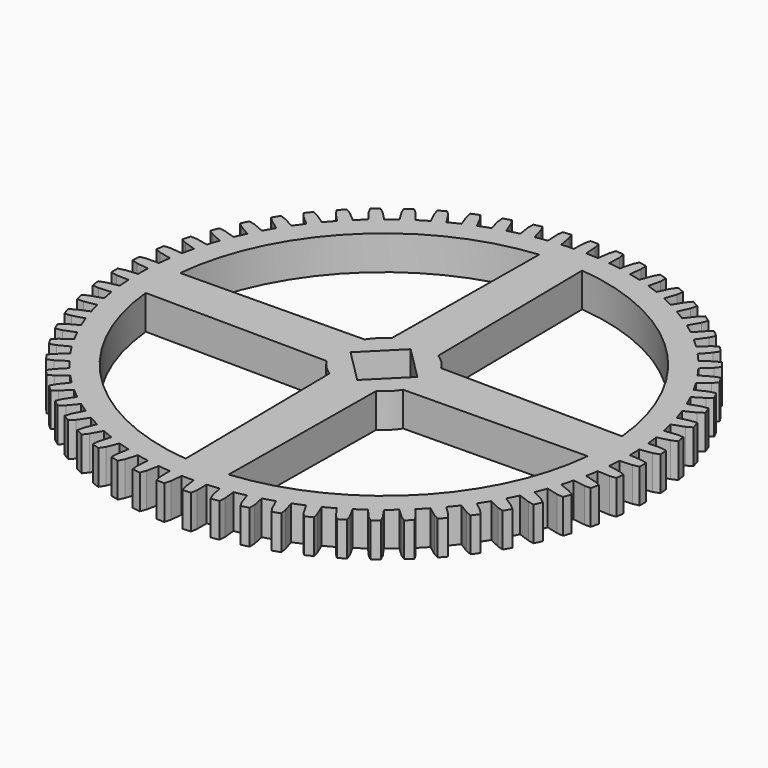
from build123d import *

# Parameters (mm, degrees)
F1_DEPTH = 13.97


with BuildPart() as f1:
    # F0 (on Top) → F1 (new body)
    with BuildSketch(Plane.XY):
        with BuildLine():
            ThreePointArc((2.420681, 100.338905), (1.150494, 100.361506), (-0.119877, 100.368028))
            ThreePointArc((-0.119877, 100.368028), (-1.389868, 100.358476), (-2.659636, 100.332855))
            ThreePointArc((-2.659636, 100.332855), (-5.122301, 100.237306), (-7.581877, 100.08132))
            ThreePointArc((-7.581877, 100.08132), (-10.11235, 99.857378), (-12.636346, 99.569465))
            ThreePointArc((-12.636346, 99.569465), (-15.077259, 99.229188), (-17.509082, 98.829082))
            ThreePointArc((-17.509082, 98.829082), (-20.004684, 98.354299), (-22.48747, 97.816508))
            ThreePointArc((-22.48747, 97.816508), (-24.882374, 97.234886), (-27.262275, 96.594637))
            ThreePointArc((-27.262275, 96.594637), (-29.698202, 95.873731), (-32.115104, 95.091407))
            ThreePointArc((-32.115104, 95.091407), (-34.440196, 94.274219), (-36.744522, 93.40019))
            ThreePointArc((-36.744522, 93.40019), (-39.096566, 92.440327), (-41.423563, 91.421244))
            ThreePointArc((-41.423563, 91.421244), (-43.655736, 90.376613), (-45.861586, 89.277491))
            ThreePointArc((-45.861586, 89.277491), (-48.10637, 88.088209), (-50.320337, 86.842497))
            ThreePointArc((-50.320337, 86.842497), (-52.437405, 85.580804), (-54.522857, 84.267512))
            ThreePointArc((-54.522857, 84.267512), (-56.638072, 82.860631), (-58.717004, 81.400669))
            ThreePointArc((-58.717004, 81.400669), (-60.697928, 79.934454), (-62.642256, 78.420044))
            ThreePointArc((-62.642256, 78.420044), (-64.60688, 76.809547), (-66.530115, 75.149845))
            ThreePointArc((-66.530115, 75.149845), (-68.355208, 73.49368), (-70.139087, 71.793203))
            ThreePointArc((-70.139087, 71.793203), (-71.933595, 69.995096), (-73.682021, 68.152148))
            ThreePointArc((-73.682021, 68.152148), (-75.333143, 66.322493), (-76.938845, 64.452848))
            ThreePointArc((-76.938845, 64.452848), (-78.545402, 62.485001), (-80.101641, 60.477125))
            ThreePointArc((-80.101641, 60.477125), (-81.562384, 58.492162), (-82.97395, 56.471933))
            ThreePointArc((-82.97395, 56.471933), (-84.376589, 54.353903), (-85.725175, 52.201053))
            ThreePointArc((-85.725175, 52.201053), (-86.981021, 50.080511), (-88.184422, 47.929773))
            ThreePointArc((-88.184422, 47.929773), (-89.369204, 45.682611), (-90.496734, 43.406183))
            ThreePointArc((-90.496734, 43.406183), (-91.535201, 41.171136), (-92.518478, 38.911266))
            ThreePointArc((-92.518478, 38.911266), (-93.473627, 36.557304), (-94.368895, 34.179923))
            ThreePointArc((-94.368895, 34.179923), (-95.179663, 31.852585), (-95.933044, 29.506042))
            ThreePointArc((-95.933044, 29.506042), (-96.649068, 27.068675), (-97.303176, 24.613968))
            ThreePointArc((-97.303176, 24.613968), (-97.878188, 22.217468), (-98.394184, 19.807573))
            ThreePointArc((-98.394184, 19.807573), (-98.863967, 17.311025), (-99.270415, 14.803387))
            ThreePointArc((-99.270415, 14.803387), (-99.603954, 12.361544), (-99.877439, 9.912248))
            ThreePointArc((-99.877439, 9.912248), (-100.096311, 7.381331), (-100.251059, 4.845685))
            ThreePointArc((-100.251059, 4.845685), (-100.339812, 2.382766), (-100.368067, -0.08159))
            ThreePointArc((-100.368067, -0.08159), (-100.333853, -2.621723), (-100.235363, -5.160177))
            ThreePointArc((-100.235363, -5.160177), (-100.078448, -7.619694), (-99.861192, -10.074617))
            ThreePointArc((-99.861192, -10.074617), (-99.574232, -12.598721), (-99.223484, -15.114754))
            ThreePointArc((-99.223484, -15.114754), (-98.822459, -17.546425), (-98.361851, -19.967518))
            ThreePointArc((-98.361851, -19.967518), (-97.824998, -22.450507), (-97.225476, -24.919114))
            ThreePointArc((-97.225476, -24.919114), (-96.584328, -27.298773), (-95.884946, -29.661972))
            ThreePointArc((-95.884946, -29.661972), (-95.103535, -32.07917), (-94.261199, -34.475817))
            ThreePointArc((-94.261199, -34.475817), (-93.386299, -36.779813), (-92.455094, -39.061633))
            ThreePointArc((-92.455094, -39.061633), (-91.43689, -41.389015), (-90.360111, -43.689883))
            ThreePointArc((-90.360111, -43.689883), (-89.260155, -45.895318), (-88.106381, -48.073081))
            Line((-88.106381, -48.073081), (-92.237725, -50.881745))
            Line((-92.237725, -50.881745), (-94.1213, -52.680146))
            ThreePointArc((-94.1213, -52.680146), (-93.303868, -54.11474), (-92.464571, -55.536654))
            Line((-92.464571, -55.536654), (-90.002439, -54.753374))
            Line((-90.002439, -54.753374), (-85.560984, -52.46974))
            ThreePointArc((-85.560984, -52.46974), (-84.246903, -54.554695), (-82.882027, -56.606758))
            Line((-82.882027, -56.606758), (-86.713189, -59.812814))
            Line((-86.713189, -59.812814), (-88.408342, -61.789821))
            ThreePointArc((-88.408342, -61.789821), (-87.452132, -63.135897), (-86.475429, -64.467178))
            Line((-86.475429, -64.467178), (-84.103521, -63.442642))
            Line((-84.103521, -63.442642), (-79.911513, -60.728129))
            ThreePointArc((-79.911513, -60.728129), (-78.396368, -62.671884), (-76.833955, -64.577851))
            ThreePointArc((-76.833955, -64.577851), (-75.174979, -66.501714), (-73.467846, -68.382974))
            ThreePointArc((-73.467846, -68.382974), (-71.766694, -70.16621), (-70.022272, -71.907141))
            ThreePointArc((-70.022272, -71.907141), (-68.179986, -73.656263), (-66.294022, -75.358199))
            ThreePointArc((-66.294022, -75.358199), (-64.423771, -76.963194), (-62.514677, -78.521785))
            ThreePointArc((-62.514677, -78.521785), (-60.507389, -80.078783), (-58.461338, -81.58448))
            ThreePointArc((-58.461338, -81.58448), (-56.440575, -82.995283), (-54.385782, -84.356044))
            ThreePointArc((-54.385782, -84.356044), (-52.233442, -85.705444), (-50.04764, -86.999938))
            ThreePointArc((-50.04764, -86.999938), (-47.896448, -88.202527), (-45.716377, -89.351935))
            ThreePointArc((-45.716377, -89.351935), (-43.440376, -90.480325), (-41.136545, -91.550752))
            ThreePointArc((-41.136545, -91.550752), (-38.876304, -92.533175), (-36.592622, -93.459807))
            ThreePointArc((-36.592622, -93.459807), (-34.215579, -94.355973), (-31.816617, -95.191693))
            ThreePointArc((-31.816617, -95.191693), (-29.46979, -95.944187), (-27.105194, -96.638833))
            ThreePointArc((-27.105194, -96.638833), (-24.650734, -97.293868), (-22.180482, -97.886576))
            ThreePointArc((-22.180482, -97.886576), (-19.770392, -98.401662), (-17.348382, -98.857418))
            ThreePointArc((-17.348382, -98.857418), (-14.840898, -99.264814), (-12.323906, -99.608618))
            ThreePointArc((-12.323906, -99.608618), (-9.874507, -99.881177), (-7.419153, -100.093515))
            ThreePointArc((-7.419153, -100.093515), (-4.883566, -100.249221), (-2.34485, -100.340705))
            ThreePointArc((-2.34485, -100.340705), (0.119516, -100.368029), (2.58381, -100.334837))
            ThreePointArc((2.58381, -100.334837), (5.122301, -100.237306), (7.65751, -100.075562))
            ThreePointArc((7.65751, -100.075562), (10.11235, -99.857378), (12.561094, -99.578986))
            ThreePointArc((12.561094, -99.578986), (15.077259, -99.229188), (17.583766, -98.815822))
            ThreePointArc((17.583766, -98.815822), (20.004684, -98.354299), (22.41354, -97.833474))
            ThreePointArc((22.41354, -97.833474), (24.882374, -97.234886), (27.335267, -96.574006))
            ThreePointArc((27.335267, -96.574006), (29.698202, -95.873731), (32.043231, -95.11565))
            ThreePointArc((32.043231, -95.11565), (34.440196, -94.274219), (36.815098, -93.372395))
            ThreePointArc((36.815098, -93.372395), (39.096566, -92.440327), (41.354461, -91.452523))
            ThreePointArc((41.354461, -91.452523), (43.655736, -90.376613), (45.929043, -89.242806))
            ThreePointArc((45.929043, -89.242806), (48.10637, -88.088209), (50.254692, -86.880501))
            ThreePointArc((50.254692, -86.880501), (52.437405, -85.580804), (54.586526, -84.226283))
            ThreePointArc((54.586526, -84.226283), (56.638072, -82.860631), (58.65547, -81.44502))
            ThreePointArc((58.65547, -81.44502), (60.697928, -79.934454), (62.701503, -78.372681))
            ThreePointArc((62.701503, -78.372681), (64.60688, -76.809547), (66.473303, -75.200103))
            ThreePointArc((66.473303, -75.200103), (68.355208, -73.49368), (70.193324, -71.740176))
            ThreePointArc((70.193324, -71.740176), (71.933595, -69.995096), (73.630494, -68.207813))
            ThreePointArc((73.630494, -68.207813), (75.333143, -66.322493), (76.987532, -64.394684))
            ThreePointArc((76.987532, -64.394684), (78.545402, -62.485001), (80.055913, -60.537643))
            ThreePointArc((80.055913, -60.537643), (81.562384, -58.492162), (83.016604, -56.40921))
            ThreePointArc((83.016604, -56.40921), (84.376589, -54.353903), (85.6857, -52.265823))
            ThreePointArc((85.6857, -52.265823), (86.981021, -50.080511), (88.220619, -47.863115))
            ThreePointArc((88.220619, -47.863115), (89.369204, -45.682611), (90.463904, -43.474562))
            ThreePointArc((90.463904, -43.474562), (91.535201, -41.171136), (92.547859, -38.841336))
            ThreePointArc((92.547859, -38.841336), (93.473627, -36.557304), (94.343037, -34.251231))
            ThreePointArc((94.343037, -34.251231), (95.179663, -31.852585), (95.955316, -29.433533))
            ThreePointArc((95.955316, -29.433533), (96.649068, -27.068675), (97.284547, -24.687496))
            ThreePointArc((97.284547, -24.687496), (97.878188, -22.217468), (98.409126, -19.733207))
            ThreePointArc((98.409126, -19.733207), (98.863967, -17.311025), (99.259199, -14.878406))
            ThreePointArc((99.259199, -14.878406), (99.603954, -12.361544), (99.884902, -9.836764))
            ThreePointArc((99.884902, -9.836764), (100.096311, -7.381331), (100.247368, -4.921447))
            ThreePointArc((100.247368, -4.921447), (100.339812, -2.382766), (100.367977, 0.157442))
            ThreePointArc((100.367977, 0.157442), (100.333853, 2.621723), (100.239235, 5.084424))
            ThreePointArc((100.239235, 5.084424), (100.078448, 7.619694), (99.853549, 10.150083))
            ThreePointArc((99.853549, 10.150083), (99.574232, 12.598721), (99.234878, 15.039763))
            ThreePointArc((99.234878, 15.039763), (98.822459, 17.546425), (98.346733, 20.041847))
            ThreePointArc((98.346733, 20.041847), (97.824998, 22.450507), (97.244281, 24.84563))
            ThreePointArc((97.244281, 24.84563), (96.584328, 27.298773), (95.862502, 29.734427))
            ThreePointArc((95.862502, 29.734427), (95.103535, 32.07917), (94.287226, 34.40457))
            ThreePointArc((94.287226, 34.40457), (93.386299, 36.779813), (92.425547, 39.131493))
            ThreePointArc((92.425547, 39.131493), (91.43689, 41.389015), (90.393103, 43.621582))
            ThreePointArc((90.393103, 43.621582), (89.260155, 45.895318), (88.070025, 48.139653))
            ThreePointArc((88.070025, 48.139653), (86.861505, 50.287518), (85.600612, 52.405063))
            ThreePointArc((85.600612, 52.405063), (84.246903, 54.554695), (82.839224, 56.669379))
            ThreePointArc((82.839224, 56.669379), (81.422851, 58.686241), (79.957384, 60.667719))
            ThreePointArc((79.957384, 60.667719), (78.396368, 62.671884), (76.785129, 64.635899))
            ThreePointArc((76.785129, 64.635899), (75.174979, 66.501714), (73.519504, 68.327432))
            ThreePointArc((73.519504, 68.327432), (71.766694, 70.16621), (69.967909, 71.960039))
            ThreePointArc((69.967909, 71.960039), (68.179986, 73.656263), (66.350954, 75.308077))
            ThreePointArc((66.350954, 75.308077), (64.423771, 76.963194), (62.455317, 78.569007))
            ThreePointArc((62.455317, 78.569007), (60.507389, 80.078783), (58.522978, 81.540276))
            ThreePointArc((58.522978, 81.540276), (56.440575, 82.995283), (54.322016, 84.397122))
            ThreePointArc((54.322016, 84.397122), (52.233442, 85.705444), (50.113375, 86.962091))
            ThreePointArc((50.113375, 86.962091), (47.896448, 88.202527), (45.648838, 89.386459))
            ThreePointArc((45.648838, 89.386459), (43.440376, 90.480325), (41.205722, 91.519637))
            ThreePointArc((41.205722, 91.519637), (38.876304, 92.533175), (36.521981, 93.487434))
            ThreePointArc((36.521981, 93.487434), (34.215579, 94.355973), (31.888548, 95.167621))
            ThreePointArc((31.888548, 95.167621), (29.46979, 95.944187), (27.032153, 96.659289))
            ThreePointArc((27.032153, 96.659289), (24.650734, 97.293868), (22.254452, 97.869785))
            ThreePointArc((22.254452, 97.869785), (19.770392, 98.401662), (17.273666, 98.870501))
            ThreePointArc((17.273666, 98.870501), (14.840898, 99.264814), (12.399181, 99.599276))
            ThreePointArc((12.399181, 99.599276), (9.874507, 99.881177), (7.343507, 100.099093))
            ThreePointArc((7.343507, 100.099093), (4.883566, 100.249221), (2.420681, 100.338905))
        make_face()
        with BuildLine():
            ThreePointArc((90.289395, 8.7884), (90.609361, 4.399376), (90.7161, 0))
            ThreePointArc((90.7161, 0), (90.609361, -4.399376), (90.289395, -8.7884))
            ThreePointArc((90.289395, -8.7884), (64.145969, -64.145969), (8.7884, -90.289395))
            ThreePointArc((8.7884, -90.289395), (4.399376, -90.609361), (0, -90.7161))
            ThreePointArc((0, -90.7161), (-4.399376, -90.609361), (-8.7884, -90.289395))
            ThreePointArc((-8.7884, -90.289395), (-64.145969, -64.145969), (-90.289395, -8.7884))
            ThreePointArc((-90.289395, -8.7884), (-90.609361, -4.399376), (-90.7161, 0))
            ThreePointArc((-90.7161, 0), (-90.609361, 4.399376), (-90.289395, 8.7884))
            ThreePointArc((-90.289395, 8.7884), (-64.145969, 64.145969), (-8.7884, 90.289395))
            ThreePointArc((-8.7884, 90.289395), (-4.399376, 90.609361), (0, 90.7161))
            ThreePointArc((0, 90.7161), (4.399376, 90.609361), (8.7884, 90.289395))
            ThreePointArc((8.7884, 90.289395), (64.145969, 64.145969), (90.289395, 8.7884))
        make_face(mode=Mode.SUBTRACT)
        with BuildLine():
            Line((0, 18.415), (0, 90.7161))
            ThreePointArc((0, 90.7161), (-4.399376, 90.609361), (-8.7884, 90.289395))
            Line((-8.7884, 90.289395), (-9.4869, 15.783249))
            ThreePointArc((-9.4869, 15.783249), (-4.922585, 17.744869), (0, 18.415))
        make_face()
        with BuildLine():
            Line((-15.64357, 9.7155), (-90.289395, 8.7884))
            ThreePointArc((-90.289395, 8.7884), (-90.609361, 4.399376), (-90.7161, 0))
            Line((-90.7161, 0), (-18.415, 0))
            ThreePointArc((-18.415, 0), (-17.708594, 5.051529), (-15.64357, 9.7155))
        make_face()
        with BuildLine():
            ThreePointArc((-90.7161, 0), (-90.609361, -4.399376), (-90.289395, -8.7884))
            Line((-90.289395, -8.7884), (-15.783249, -9.4869))
            ThreePointArc((-15.783249, -9.4869), (-17.744869, -4.922585), (-18.415, 0))
            Line((-18.415, 0), (-90.7161, 0))
        make_face()
        with BuildLine():
            ThreePointArc((-8.7884, -90.289395), (-4.399376, -90.609361), (0, -90.7161))
            Line((0, -90.7161), (0, -18.415))
            ThreePointArc((0, -18.415), (-5.051529, -17.708594), (-9.7155, -15.64357))
            Line((-9.7155, -15.64357), (-8.7884, -90.289395))
        make_face()
        with BuildLine():
            ThreePointArc((0, -90.7161), (4.399376, -90.609361), (8.7884, -90.289395))
            Line((8.7884, -90.289395), (9.4869, -15.783249))
            ThreePointArc((9.4869, -15.783249), (4.922585, -17.744869), (0, -18.415))
            Line((0, -18.415), (0, -90.7161))
        make_face()
        with BuildLine():
            ThreePointArc((90.289395, -8.7884), (90.609361, -4.399376), (90.7161, 0))
            Line((90.7161, 0), (18.415, 0))
            ThreePointArc((18.415, 0), (17.708594, -5.051529), (15.64357, -9.7155))
            Line((15.64357, -9.7155), (90.289395, -8.7884))
        make_face()
        with BuildLine():
            Line((18.415, 0), (90.7161, 0))
            ThreePointArc((90.7161, 0), (90.609361, 4.399376), (90.289395, 8.7884))
            Line((90.289395, 8.7884), (15.783249, 9.4869))
            ThreePointArc((15.783249, 9.4869), (17.744869, 4.922585), (18.415, 0))
        make_face()
        with BuildLine():
            ThreePointArc((15.64357, -9.7155), (17.708594, -5.051529), (18.415, 0))
            ThreePointArc((18.415, 0), (17.744869, 4.922585), (15.783249, 9.4869))
            ThreePointArc((15.783249, 9.4869), (13.115742, 12.926311), (9.7155, 15.64357))
            ThreePointArc((9.7155, 15.64357), (5.051529, 17.708594), (0, 18.415))
            ThreePointArc((0, 18.415), (-4.922585, 17.744869), (-9.4869, 15.783249))
            ThreePointArc((-9.4869, 15.783249), (-12.926311, 13.115742), (-15.64357, 9.7155))
            ThreePointArc((-15.64357, 9.7155), (-17.708594, 5.051529), (-18.415, 0))
            ThreePointArc((-18.415, 0), (-17.744869, -4.922585), (-15.783249, -9.4869))
            ThreePointArc((-15.783249, -9.4869), (-13.115742, -12.926311), (-9.7155, -15.64357))
            ThreePointArc((-9.7155, -15.64357), (-5.051529, -17.708594), (0, -18.415))
            ThreePointArc((0, -18.415), (4.922585, -17.744869), (9.4869, -15.783249))
            ThreePointArc((9.4869, -15.783249), (12.926311, -13.115742), (15.64357, -9.7155))
        make_face()
        Polygon((13.656689, 0), (0, -13.6271), (-13.636956, 0), (0, 13.646819), align=None, mode=Mode.SUBTRACT)
        with BuildLine():
            Line((8.082009, 105.038337), (7.343507, 100.099093))
            ThreePointArc((7.343507, 100.099093), (9.874507, 99.881177), (12.399181, 99.599276))
            Line((12.399181, 99.599276), (12.530366, 104.593211))
            Line((12.530366, 104.593211), (12.169701, 107.172362))
            ThreePointArc((12.169701, 107.172362), (10.527728, 107.346094), (8.883288, 107.49467))
            Line((8.883288, 107.49467), (8.082009, 105.038337))
        make_face()
        with BuildLine():
            Line((18.500288, 103.711669), (17.273666, 98.870501))
            ThreePointArc((17.273666, 98.870501), (19.770392, 98.401662), (22.254452, 97.869785))
            Line((22.254452, 97.869785), (22.88222, 102.825843))
            Line((22.88222, 102.825843), (22.780148, 105.428088))
            ThreePointArc((22.780148, 105.428088), (21.163633, 105.764444), (19.542158, 106.076015))
            Line((19.542158, 106.076015), (18.500288, 103.711669))
        make_face()
        with BuildLine():
            Line((28.734704, 101.354269), (27.032153, 96.659289))
            ThreePointArc((27.032153, 96.659289), (29.46979, 95.944187), (31.888548, 95.167621))
            Line((31.888548, 95.167621), (33.006661, 100.036545))
            Line((33.006661, 100.036545), (33.164197, 102.636022))
            ThreePointArc((33.164197, 102.636022), (31.589204, 103.131659), (30.006809, 103.603129))
            Line((30.006809, 103.603129), (28.734704, 101.354269))
        make_face()
        with BuildLine():
            Line((38.683541, 97.989564), (36.521981, 93.487434))
            ThreePointArc((36.521981, 93.487434), (38.876304, 92.533175), (41.205722, 91.519637))
            Line((41.205722, 91.519637), (42.803067, 96.253038))
            Line((42.803067, 96.253038), (43.218644, 98.823913))
            ThreePointArc((43.218644, 98.823913), (41.700827, 99.473906), (40.173239, 100.100588))
            Line((40.173239, 100.100588), (38.683541, 97.989564))
        make_face()
        with BuildLine():
            Line((48.247924, 93.650995), (45.648838, 89.386459))
            ThreePointArc((45.648838, 89.386459), (47.896448, 88.202527), (50.113375, 86.962091))
            Line((50.113375, 86.962091), (52.174077, 91.512926))
            Line((52.174077, 91.512926), (52.843565, 94.029647))
            ThreePointArc((52.843565, 94.029647), (51.398009, 94.827536), (49.940409, 95.603203))
            Line((49.940409, 95.603203), (48.247924, 93.650995))
        make_face()
        with BuildLine():
            Line((57.332797, 88.38168), (54.322016, 84.397122))
            ThreePointArc((54.322016, 84.397122), (56.440575, 82.995283), (58.522978, 81.540276))
            Line((58.522978, 81.540276), (61.026557, 85.863317))
            Line((61.026557, 85.863317), (61.943303, 88.300873))
            ThreePointArc((61.943303, 88.300873), (60.584374, 89.238727), (59.211249, 90.15567))
            Line((59.211249, 90.15567), (57.332797, 88.38168))
        make_face()
        with BuildLine():
            Line((65.847871, 82.233989), (62.455317, 78.569007))
            ThreePointArc((62.455317, 78.569007), (64.423771, 76.963194), (66.350954, 75.308077))
            Line((66.350954, 75.308077), (69.272528, 79.36036))
            Line((69.272528, 79.36036), (70.42742, 81.694525))
            ThreePointArc((70.42742, 81.694525), (69.168625, 82.763025), (67.893621, 83.81213))
            Line((67.893621, 83.81213), (65.847871, 82.233989))
        make_face()
        with BuildLine():
            Line((73.708519, 75.269019), (69.967909, 71.960039))
            ThreePointArc((69.967909, 71.960039), (71.766694, 70.16621), (73.519504, 68.327432))
            Line((73.519504, 68.327432), (76.830037, 72.068684))
            Line((76.830037, 72.068684), (78.211599, 74.27626))
            ThreePointArc((78.211599, 74.27626), (77.065447, 75.464785), (75.901235, 76.635627))
            Line((75.901235, 76.635627), (73.708519, 75.269019))
        make_face()
        with BuildLine():
            Line((80.836619, 67.555992), (76.785129, 64.635899))
            ThreePointArc((76.785129, 64.635899), (78.396368, 62.671884), (79.957384, 60.667719))
            Line((79.957384, 60.667719), (83.623975, 64.060758))
            Line((83.623975, 64.060758), (85.218475, 66.119804))
            ThreePointArc((85.218475, 66.119804), (84.196357, 67.416543), (83.154509, 68.697485))
            Line((83.154509, 68.697485), (80.836619, 67.555992))
        make_face()
        with BuildLine():
            Line((87.161328, 59.171563), (82.839224, 56.669379))
            ThreePointArc((82.839224, 56.669379), (84.246903, 54.554695), (85.600612, 52.405063))
            Line((85.600612, 52.405063), (89.586821, 55.416166))
            Line((89.586821, 55.416166), (91.378412, 57.30622))
            ThreePointArc((91.378412, 57.30622), (90.490487, 58.698285), (89.581357, 60.076596))
            Line((89.581357, 60.076596), (87.161328, 59.171563))
        make_face()
        with BuildLine():
            Line((92.619789, 50.19906), (88.070025, 48.139653))
            ThreePointArc((88.070025, 48.139653), (89.260155, 45.895318), (90.393103, 43.621582))
            Line((90.393103, 43.621582), (94.659312, 46.220824))
            Line((94.659312, 46.220824), (96.630189, 47.9231))
            ThreePointArc((96.630189, 47.9231), (95.885281, 49.396658), (95.117904, 50.858639))
            Line((95.117904, 50.858639), (92.619789, 50.19906))
        make_face()
        with BuildLine():
            Line((97.157753, 40.727657), (92.425547, 39.131493))
            ThreePointArc((92.425547, 39.131493), (93.386299, 36.779813), (94.287226, 34.40457))
            Line((94.287226, 34.40457), (98.791037, 36.566118))
            Line((98.791037, 36.566118), (100.921611, 38.0637))
            ThreePointArc((100.921611, 38.0637), (100.327124, 39.604104), (99.709127, 41.135227))
            Line((99.709127, 41.135227), (97.157753, 40.727657))
        make_face()
        with BuildLine():
            Line((100.730119, 30.851484), (95.862502, 29.734427))
            ThreePointArc((95.862502, 29.734427), (96.584328, 27.298773), (97.244281, 24.84563))
            Line((97.244281, 24.84563), (101.940931, 26.548002))
            Line((101.940931, 26.548002), (104.21003, 27.826005))
            ThreePointArc((104.21003, 27.826005), (103.771872, 29.417946), (103.309396, 31.002993))
            Line((103.309396, 31.002993), (100.730119, 30.851484))
        make_face()
        with BuildLine():
            Line((103.301385, 20.668695), (98.346733, 20.041847))
            ThreePointArc((98.346733, 20.041847), (98.822459, 17.546425), (99.234878, 15.039763))
            Line((99.234878, 15.039763), (104.077691, 16.26604))
            Line((104.077691, 16.26604), (106.462762, 17.311763))
            ThreePointArc((106.462762, 17.311763), (106.185287, 18.93942), (105.88293, 20.562638))
            Line((105.88293, 20.562638), (103.301385, 20.668695))
        make_face()
        with BuildLine():
            Line((104.845994, 10.280491), (99.853549, 10.150083))
            ThreePointArc((99.853549, 10.150083), (100.078448, 7.619694), (100.239235, 5.084424))
            Line((100.239235, 5.084424), (105.180081, 5.822419))
            Line((105.180081, 5.822419), (107.65742, 6.625469))
            ThreePointArc((107.65742, 6.625469), (107.543386, 8.272665), (107.404151, 9.917923))
            Line((107.404151, 9.917923), (104.845994, 10.280491))
        make_face()
        with BuildLine():
            Line((105.348597, -0.209885), (100.367977, 0.157442))
            ThreePointArc((100.367977, 0.157442), (100.339812, -2.382766), (100.247368, -4.921447))
            Line((100.247368, -4.921447), (105.237143, -4.679068))
            Line((105.237143, -4.679068), (107.78213, -4.126671))
            ThreePointArc((107.78213, -4.126671), (107.83267, -2.476307), (107.857942, -0.825362))
            Line((107.857942, -0.825362), (105.348597, -0.209885))
        make_face()
        with BuildLine():
            Line((104.804199, -10.698175), (99.884902, -9.836764))
            ThreePointArc((99.884902, -9.836764), (99.603954, -12.361544), (99.259199, -14.878406))
            Line((99.259199, -14.878406), (104.248311, -15.134052))
            Line((104.248311, -15.134052), (106.835652, -14.8378))
            ThreePointArc((106.835652, -14.8378), (107.050265, -13.200668), (107.239792, -11.560443))
            Line((107.239792, -11.560443), (104.804199, -10.698175))
        make_face()
        with BuildLine():
            Line((103.218209, -21.080142), (98.409126, -19.733207))
            ThreePointArc((98.409126, -19.733207), (97.878188, -22.217468), (97.284547, -24.687496))
            Line((97.284547, -24.687496), (102.223413, -25.438628))
            Line((102.223413, -25.438628), (104.827394, -25.401463))
            ThreePointArc((104.827394, -25.401463), (105.203946, -23.793835), (105.555845, -22.180632))
            Line((105.555845, -22.180632), (103.218209, -21.080142))
        make_face()
        with BuildLine():
            Line((100.60639, -31.252605), (95.955316, -29.433533))
            ThreePointArc((95.955316, -29.433533), (95.179663, -31.852585), (94.343037, -34.251231))
            Line((94.343037, -34.251231), (99.182572, -35.490382))
            Line((99.182572, -35.490382), (101.777314, -35.712675))
            ThreePointArc((101.777314, -35.712675), (102.312063, -34.150529), (102.822837, -32.58038))
            Line((102.822837, -32.58038), (100.60639, -31.252605))
        make_face()
        with BuildLine():
            Line((96.9947, -41.114465), (92.547859, -38.841336))
            ThreePointArc((92.547859, -38.841336), (91.535201, -41.171136), (90.463904, -43.474562))
            Line((90.463904, -43.474562), (95.156011, -45.189418))
            Line((95.156011, -45.189418), (97.715726, -45.668959))
            ThreePointArc((97.715726, -45.668959), (98.403357, -44.167819), (99.067929, -42.656329))
            Line((99.067929, -42.656329), (96.9947, -41.114465))
        make_face()
        with BuildLine():
            Line((92.419033, -50.567711), (88.220619, -47.863115))
            ThreePointArc((88.220619, -47.863115), (86.981021, -50.080511), (85.6857, -52.265823))
            Line((85.6857, -52.265823), (90.183746, -54.439341))
            Line((90.183746, -54.439341), (92.682994, -55.171364))
            ThreePointArc((92.682994, -55.171364), (93.516674, -53.74615), (94.328439, -52.30834))
            Line((94.328439, -52.30834), (92.419033, -50.567711))
        make_face()
        with BuildLine():
            Line((86.924864, -59.518393), (83.016604, -56.40921))
            ThreePointArc((83.016604, -56.40921), (81.562384, -58.492162), (80.055913, -60.537643))
            Line((80.055913, -60.537643), (84.315195, -63.148221))
            Line((84.315195, -63.148221), (86.729138, -64.125452))
            ThreePointArc((86.729138, -64.125452), (87.70058, -62.790327), (88.651471, -61.440488))
            Line((88.651471, -61.440488), (86.924864, -59.518393))
        make_face()
        with BuildLine():
            Line((80.566796, -67.877554), (76.987532, -64.394684))
            ThreePointArc((76.987532, -64.394684), (75.333143, -66.322493), (73.630494, -68.207813))
            Line((73.630494, -68.207813), (77.608682, -71.229505))
            Line((77.608682, -71.229505), (79.913328, -72.442231))
            ThreePointArc((79.913328, -72.442231), (81.012879, -71.210465), (82.093445, -69.962013))
            Line((82.093445, -69.962013), (80.566796, -67.877554))
        make_face()
        with BuildLine():
            Line((73.40802, -75.562118), (70.193324, -71.740176))
            ThreePointArc((70.193324, -71.740176), (68.355208, -73.49368), (66.473303, -75.200103))
            Line((66.473303, -75.200103), (70.130858, -78.602879))
            Line((70.130858, -78.602879), (72.303304, -80.039048))
            ThreePointArc((72.303304, -80.039048), (73.520035, -78.922883), (74.719537, -77.788223))
            Line((74.719537, -77.788223), (73.40802, -75.562118))
        make_face()
        with BuildLine():
            Line((65.519681, -82.495711), (62.701503, -78.372681))
            ThreePointArc((62.701503, -78.372681), (60.697928, -79.934454), (58.65547, -81.44502))
            Line((58.65547, -81.44502), (61.956043, -85.195062))
            Line((61.956043, -85.195062), (63.974697, -86.8404))
            ThreePointArc((63.974697, -86.8404), (65.296516, -85.850929), (66.603033, -84.841339))
            Line((66.603033, -84.841339), (65.519681, -82.495711))
        make_face()
        with BuildLine():
            Line((56.980179, -88.609425), (54.586526, -84.226283))
            ThreePointArc((54.586526, -84.226283), (52.437405, -85.580804), (50.254692, -86.880501))
            Line((50.254692, -86.880501), (53.16548, -90.940539))
            Line((53.16548, -90.940539), (55.010281, -92.778693))
            ThreePointArc((55.010281, -92.778693), (56.424051, -91.925749), (57.824598, -91.051264))
            Line((57.824598, -91.051264), (56.980179, -88.609425))
        make_face()
        with BuildLine():
            Line((47.874382, -93.842499), (45.929043, -89.242806))
            ThreePointArc((45.929043, -89.242806), (43.655736, -90.376613), (41.354461, -91.452523))
            Line((41.354461, -91.452523), (43.846536, -95.782207))
            Line((43.846536, -95.782207), (45.499148, -97.79491))
            ThreePointArc((45.499148, -97.79491), (46.990818, -97.086971), (48.471477, -96.356281))
            Line((48.471477, -96.356281), (47.874382, -93.842499))
        make_face()
        with BuildLine():
            Line((38.292788, -98.142923), (36.815098, -93.372395))
            ThreePointArc((36.815098, -93.372395), (34.440196, -94.274219), (32.043231, -95.11565))
            Line((32.043231, -95.11565), (34.091824, -99.671949))
            Line((34.091824, -99.671949), (35.535823, -101.839197))
            ThreePointArc((35.535823, -101.839197), (37.090569, -101.283299), (38.636624, -100.703665))
            Line((38.636624, -100.703665), (38.292788, -98.142923))
        make_face()
        with BuildLine():
            Line((28.330623, -101.46796), (27.335267, -96.574006))
            ThreePointArc((27.335267, -96.574006), (24.882374, -97.234886), (22.41354, -97.833474))
            Line((22.41354, -97.833474), (23.998293, -102.571106))
            Line((23.998293, -102.571106), (25.219328, -104.871361))
            ThreePointArc((25.219328, -104.871361), (26.821698, -104.473027), (28.417782, -104.050212))
            Line((28.417782, -104.050212), (28.330623, -101.46796))
        make_face()
        with BuildLine():
            Line((18.086896, -103.784562), (17.583766, -98.815822))
            ThreePointArc((17.583766, -98.815822), (15.077259, -99.229188), (12.561094, -99.578986))
            Line((12.561094, -99.578986), (13.666256, -104.450866))
            Line((13.666256, -104.450866), (14.652192, -106.861266))
            ThreePointArc((14.652192, -106.861266), (16.286261, -106.624456), (17.916512, -106.36266))
            Line((17.916512, -106.36266), (18.086896, -103.784562))
        make_face()
        with BuildLine():
            Line((7.663412, -105.069706), (7.65751, -100.075562))
            ThreePointArc((7.65751, -100.075562), (5.122301, -100.237306), (2.58381, -100.334837))
            Line((2.58381, -100.334837), (3.198397, -105.292546))
            Line((3.198397, -105.292546), (3.939436, -107.789136))
            ThreePointArc((3.939436, -107.789136), (5.588963, -107.716203), (7.23718, -107.618029))
            Line((7.23718, -107.618029), (7.663412, -105.069706))
        make_face()
        with BuildLine():
            Line((-7.301248, -105.087781), (-6.812472, -107.645748))
            ThreePointArc((-6.812472, -107.645748), (-5.16388, -107.737418), (-3.514078, -107.803841))
            Line((-3.514078, -107.803841), (-2.836233, -105.310621))
            Line((-2.836233, -105.310621), (-2.34485, -100.340705))
            ThreePointArc((-2.34485, -100.340705), (-4.883566, -100.249221), (-7.419153, -100.093515))
            Line((-7.419153, -100.093515), (-7.301248, -105.087781))
        make_face()
        with BuildLine():
            Line((-17.728331, -103.838607), (-17.496675, -106.432529))
            ThreePointArc((-17.496675, -106.432529), (-15.865402, -106.68789), (-14.230412, -106.91825))
            Line((-14.230412, -106.91825), (-13.307691, -104.504911))
            Line((-13.307691, -104.504911), (-12.323906, -99.608618))
            ThreePointArc((-12.323906, -99.608618), (-14.840898, -99.264814), (-17.348382, -98.857418))
            Line((-17.348382, -98.857418), (-17.728331, -103.838607))
        make_face()
        with BuildLine():
            Line((-27.979221, -101.557437), (-28.006987, -104.161536))
            ThreePointArc((-28.006987, -104.161536), (-26.409247, -104.57805), (-24.805318, -104.970058))
            Line((-24.805318, -104.970058), (-23.646891, -102.660584))
            Line((-23.646891, -102.660584), (-22.180482, -97.886576))
            ThreePointArc((-22.180482, -97.886576), (-24.650734, -97.293868), (-27.105194, -96.638833))
            Line((-27.105194, -96.638833), (-27.979221, -101.557437))
        make_face()
        with BuildLine():
            Line((-37.952041, -98.266945), (-38.238954, -100.855338))
            ThreePointArc((-38.238954, -100.855338), (-36.690625, -101.428866), (-35.133698, -101.978626))
            Line((-35.133698, -101.978626), (-33.751078, -99.795971))
            Line((-33.751078, -99.795971), (-31.816617, -95.191693))
            ThreePointArc((-31.816617, -95.191693), (-34.215579, -94.355973), (-36.592622, -93.459807))
            Line((-36.592622, -93.459807), (-37.952041, -98.266945))
        make_face()
        with BuildLine():
            Line((-47.547677, -93.999831), (-48.090885, -96.546795))
            ThreePointArc((-48.090885, -96.546795), (-46.607355, -97.271637), (-45.112903, -97.973685))
            Line((-45.112903, -97.973685), (-43.519831, -95.93954))
            Line((-43.519831, -95.93954), (-41.136545, -91.550752))
            ThreePointArc((-41.136545, -91.550752), (-43.440376, -90.480325), (-45.716377, -89.351935))
            Line((-45.716377, -89.351935), (-47.547677, -93.999831))
        make_face()
        with BuildLine():
            Line((-56.670763, -88.798505), (-57.464867, -91.278727))
            ThreePointArc((-57.464867, -91.278727), (-56.06088, -92.147679), (-54.643755, -92.995037))
            Line((-54.643755, -92.995037), (-52.856064, -91.129619))
            Line((-52.856064, -91.129619), (-50.04764, -86.999938))
            ThreePointArc((-50.04764, -86.999938), (-52.233442, -85.705444), (-54.385782, -84.356044))
            Line((-54.385782, -84.356044), (-56.670763, -88.798505))
        make_face()
        with BuildLine():
            Line((-65.230629, -82.71466), (-66.267738, -85.103489))
            ThreePointArc((-66.267738, -85.103489), (-64.957247, -86.107915), (-63.631534, -87.092163))
            Line((-63.631534, -87.092163), (-61.666991, -85.414011))
            Line((-61.666991, -85.414011), (-58.461338, -81.58448))
            ThreePointArc((-58.461338, -81.58448), (-60.507389, -80.078783), (-62.514677, -78.521785))
            Line((-62.514677, -78.521785), (-65.230629, -82.71466))
        make_face()
        with BuildLine():
            Line((-73.142204, -75.808759), (-74.412009, -78.082455))
            ThreePointArc((-74.412009, -78.082455), (-73.208039, -79.212372), (-71.986913, -80.323727))
            Line((-71.986913, -80.323727), (-69.865043, -78.84952))
            Line((-69.865043, -78.84952), (-66.294022, -75.358199))
            ThreePointArc((-66.294022, -75.358199), (-68.179986, -73.656263), (-70.022272, -71.907141))
            Line((-70.022272, -71.907141), (-73.142204, -75.808759))
        make_face()
        with BuildLine():
            Line((-80.326859, -68.149436), (-81.816741, -70.285402))
            ThreePointArc((-81.816741, -70.285402), (-80.731257, -71.529581), (-79.626855, -72.756999))
            Line((-79.626855, -72.756999), (-77.368745, -71.501387))
            Line((-77.368745, -71.501387), (-73.467846, -68.382974))
            ThreePointArc((-73.467846, -68.382974), (-75.174979, -66.501714), (-76.833955, -64.577851))
            Line((-76.833955, -64.577851), (-80.326859, -68.149436))
        make_face()
        with BuildLine():
            ThreePointArc((-90.360111, -43.689883), (-91.43689, -41.389015), (-92.455094, -39.061633))
            Line((-92.455094, -39.061633), (-96.845561, -41.444991))
            Line((-96.845561, -41.444991), (-98.898839, -43.046911))
            ThreePointArc((-98.898839, -43.046911), (-98.228308, -44.555767), (-97.534759, -46.054182))
            Line((-97.534759, -46.054182), (-95.006872, -45.519944))
            Line((-95.006872, -45.519944), (-90.360111, -43.689883))
        make_face()
        with BuildLine():
            ThreePointArc((-94.261199, -34.475817), (-95.103535, -32.07917), (-95.884946, -29.661972))
            Line((-95.884946, -29.661972), (-100.490902, -31.596337))
            Line((-100.490902, -31.596337), (-102.693477, -32.985857))
            ThreePointArc((-102.693477, -32.985857), (-102.176511, -34.553978), (-101.635603, -36.114003))
            Line((-101.635603, -36.114003), (-99.067084, -35.834115))
            Line((-99.067084, -35.834115), (-94.261199, -34.475817))
        make_face()
        with BuildLine():
            ThreePointArc((-97.225476, -24.919114), (-97.824998, -22.450507), (-98.361851, -19.967518))
            Line((-98.361851, -19.967518), (-103.137519, -21.433665))
            Line((-103.137519, -21.433665), (-105.4675, -22.596974))
            ThreePointArc((-105.4675, -22.596974), (-105.109239, -24.208777), (-104.726346, -25.814906))
            Line((-104.726346, -25.814906), (-102.142723, -25.792151))
            Line((-102.142723, -25.792151), (-97.225476, -24.919114))
        make_face()
        with BuildLine():
            ThreePointArc((-99.223484, -15.114754), (-99.574232, -12.598721), (-99.861192, -10.074617))
            Line((-99.861192, -10.074617), (-104.75911, -11.057976))
            Line((-104.75911, -11.057976), (-107.193341, -11.983513))
            ThreePointArc((-107.193341, -11.983513), (-106.997343, -13.622977), (-106.776272, -15.259249))
            Line((-106.776272, -15.259249), (-104.203222, -15.493853))
            Line((-104.203222, -15.493853), (-99.223484, -15.114754))
        make_face()
        with BuildLine():
            ThreePointArc((-100.235363, -5.160177), (-100.333853, -2.621723), (-100.368067, -0.08159))
            Line((-100.368067, -0.08159), (-105.339557, -0.572387))
            Line((-105.339557, -0.572387), (-107.853846, -1.250954))
            ThreePointArc((-107.853846, -1.250954), (-107.82206, -2.901786), (-107.765007, -4.551939))
            Line((-107.765007, -4.551939), (-105.228103, -5.04157))
            Line((-105.228103, -5.04157), (-100.235363, -5.160177))
        make_face()
        with BuildLine():
            ThreePointArc((-100.251059, 4.845685), (-100.096311, 7.381331), (-99.877439, 9.912248))
            Line((-99.877439, 9.912248), (-104.873093, 9.91889))
            Line((-104.873093, 9.91889), (-107.44245, 9.494037))
            ThreePointArc((-107.44245, 9.494037), (-107.575192, 7.848243), (-107.682725, 6.20061))
            Line((-107.682725, 6.20061), (-105.207179, 5.460818))
            Line((-105.207179, 5.460818), (-100.251059, 4.845685))
        make_face()
        with BuildLine():
            ThreePointArc((-99.270415, 14.803387), (-98.863967, 17.311025), (-98.394184, 19.807573))
            Line((-98.394184, 19.807573), (-103.364352, 20.311589))
            Line((-103.364352, 20.311589), (-105.963244, 20.144673))
            ThreePointArc((-105.963244, 20.144673), (-106.259194, 18.520274), (-106.530244, 16.891535))
            Line((-106.530244, 16.891535), (-104.140659, 15.908934))
            Line((-104.140659, 15.908934), (-99.270415, 14.803387))
        make_face()
        with BuildLine():
            ThreePointArc((-97.303176, 24.613968), (-96.649068, 27.068675), (-95.933044, 29.506042))
            Line((-95.933044, 29.506042), (-100.82833, 30.502422))
            Line((-100.82833, 30.502422), (-103.430927, 30.595101))
            ThreePointArc((-103.430927, 30.595101), (-103.887145, 29.008242), (-104.319018, 27.414584))
            Line((-104.319018, 27.414584), (-102.039142, 26.19894))
            Line((-102.039142, 26.19894), (-97.303176, 24.613968))
        make_face()
        with BuildLine():
            ThreePointArc((-94.368895, 34.179923), (-93.473627, 36.557304), (-92.518478, 38.911266))
            Line((-92.518478, 38.911266), (-97.290231, 40.390108))
            Line((-97.290231, 40.390108), (-99.870667, 40.741462))
            ThreePointArc((-99.870667, 40.741462), (-100.482618, 39.207913), (-101.071022, 37.665175))
            Line((-101.071022, 37.665175), (-98.923515, 36.22857))
            Line((-98.923515, 36.22857), (-94.368895, 34.179923))
        make_face()
        with BuildLine():
            ThreePointArc((-90.496734, 43.406183), (-89.369204, 45.682611), (-88.184422, 47.929773))
            Line((-88.184422, 47.929773), (-92.785218, 49.876379))
            Line((-92.785218, 49.876379), (-95.317848, 50.482916))
            ThreePointArc((-95.317848, 50.482916), (-96.07945, 49.017917), (-96.818537, 47.541432))
            Line((-96.818537, 47.541432), (-94.824741, 45.898143))
            Line((-94.824741, 45.898143), (-90.496734, 43.406183))
        make_face()
        with BuildLine():
            ThreePointArc((-85.725175, 52.201053), (-84.376589, 54.353903), (-82.97395, 56.471933))
            Line((-82.97395, 56.471933), (-87.358064, 58.866957))
            Line((-87.358064, 58.866957), (-89.817717, 59.722648))
            ThreePointArc((-89.817717, 59.722648), (-90.721401, 58.34076), (-91.603826, 56.945202))
            Line((-91.603826, 56.945202), (-89.783556, 55.11156))
            Line((-89.783556, 55.11156), (-85.725175, 52.201053))
        make_face()
        with BuildLine():
            ThreePointArc((-80.101641, 60.477125), (-78.545402, 62.485001), (-76.938845, 64.452848))
            Line((-76.938845, 64.452848), (-81.062706, 67.272488))
            Line((-81.062706, 67.272488), (-83.424937, 68.368829))
            ThreePointArc((-83.424937, 68.368829), (-84.461722, 67.083787), (-85.478715, 65.783024))
            Line((-85.478715, 65.783024), (-83.850062, 63.777254))
            Line((-83.850062, 63.777254), (-80.101641, 60.477125))
        make_face()
        with BuildLine():
            ThreePointArc((-73.682021, 68.152148), (-71.933595, 69.995096), (-70.139087, 71.793203))
            Line((-70.139087, 71.793203), (-73.96171, 75.009435))
            Line((-73.96171, 75.009435), (-76.203042, 76.33553))
            ThreePointArc((-76.203042, 76.33553), (-77.362625, 75.160104), (-78.504078, 73.967065))
            Line((-78.504078, 73.967065), (-77.083228, 71.8091))
            Line((-77.083228, 71.8091), (-73.682021, 68.152148))
        make_face()
        with BuildLine():
            ThreePointArc((-66.530115, 75.149845), (-64.60688, 76.809547), (-62.642256, 78.420044))
            Line((-62.642256, 78.420044), (-66.12565, 82.000904))
            Line((-66.12565, 82.000904), (-68.223808, 83.543575))
            ThreePointArc((-68.223808, 83.543575), (-69.494663, 82.489446), (-70.749232, 81.415988))
            Line((-70.749232, 81.415988), (-69.550307, 79.127276))
            Line((-69.550307, 79.127276), (-66.530115, 75.149845))
        make_face()
        with BuildLine():
            ThreePointArc((-58.717004, 81.400669), (-56.638072, 82.860631), (-54.522857, 84.267512))
            Line((-54.522857, 84.267512), (-57.632403, 88.177412))
            Line((-57.632403, 88.177412), (-59.566535, 89.921326))
            ThreePointArc((-59.566535, 89.921326), (-60.936031, 88.998972), (-62.291249, 88.055762))
            Line((-62.291249, 88.055762), (-61.326164, 85.659049))
            Line((-61.326164, 85.659049), (-58.717004, 81.400669))
        make_face()
        with BuildLine():
            ThreePointArc((-50.320337, 86.842497), (-48.10637, 88.088209), (-45.861586, 89.277491))
            Line((-45.861586, 89.277491), (-48.56638, 93.477573))
            Line((-48.56638, 93.477573), (-50.317262, 95.405398))
            ThreePointArc((-50.317262, 95.405398), (-51.771791, 94.623985), (-53.214187, 93.820399))
            Line((-53.214187, 93.820399), (-52.492533, 91.339504))
            Line((-52.492533, 91.339504), (-50.320337, 86.842497))
        make_face()
        with BuildLine():
            ThreePointArc((-41.423563, 91.421244), (-39.096566, 92.440327), (-36.744522, 93.40019))
            Line((-36.744522, 93.40019), (-39.017682, 97.848712))
            Line((-39.017682, 97.848712), (-40.567915, 99.941289))
            ThreePointArc((-40.567915, 99.941289), (-42.093019, 99.308583), (-43.608259, 98.652606))
            Line((-43.608259, 98.652606), (-43.137208, 96.112186))
            Line((-43.137208, 96.112186), (-41.423563, 91.421244))
        make_face()
        with BuildLine():
            ThreePointArc((-32.115104, 95.091407), (-29.698202, 95.873731), (-27.262275, 96.594637))
            Line((-27.262275, 96.594637), (-29.081209, 101.247386))
            Line((-29.081209, 101.247386), (-30.415385, 103.483918))
            ThreePointArc((-30.415385, 103.483918), (-31.995907, 103.006208), (-33.568932, 102.504359))
            Line((-33.568932, 102.504359), (-33.353166, 99.929662))
            Line((-33.353166, 99.929662), (-32.115104, 95.091407))
        make_face()
        with BuildLine():
            ThreePointArc((-22.48747, 97.816508), (-20.004684, 98.354299), (-17.509082, 98.829082))
            Line((-17.509082, 98.829082), (-18.855714, 103.639819))
            Line((-18.855714, 103.639819), (-19.960573, 105.998077))
            ThreePointArc((-19.960573, 105.998077), (-21.580806, 105.68011), (-23.195982, 105.337379))
            Line((-23.195982, 105.337379), (-23.237646, 102.753992))
            Line((-23.237646, 102.753992), (-22.48747, 97.816508))
        make_face()
        with BuildLine():
            ThreePointArc((-12.636346, 99.569465), (-10.11235, 99.857378), (-7.581877, 100.08132))
            Line((-7.581877, 100.08132), (-8.442822, 105.002232))
            Line((-8.442822, 105.002232), (-9.307384, 107.45878))
            ThreePointArc((-9.307384, 107.45878), (-10.951225, 107.303716), (-12.5925, 107.123507))
            Line((-12.5925, 107.123507), (-12.891179, 104.557107))
            Line((-12.891179, 104.557107), (-12.636346, 99.569465))
        make_face()
        with BuildLine():
            ThreePointArc((-2.659636, 100.332855), (-1.389868, 100.358476), (-0.119877, 100.368028))
            Line((-0.119877, 100.368028), (-0.181394, 105.321086))
            Line((-0.181394, 105.321086), (-2.416594, 105.321086))
            Line((-2.416594, 105.321086), (-2.659636, 100.332855))
        make_face()
        with BuildLine():
            Line((-0.181394, 105.321086), (-0.119877, 100.368028))
            ThreePointArc((-0.119877, 100.368028), (1.150494, 100.361506), (2.420681, 100.338905))
            Line((2.420681, 100.338905), (2.053979, 105.321086))
            Line((2.053979, 105.321086), (-0.181394, 105.321086))
        make_face()
        with BuildLine():
            Line((-0.212938, 107.86089), (-0.181394, 105.321086))
            Line((-0.181394, 105.321086), (2.053979, 105.321086))
            Line((2.053979, 105.321086), (1.438306, 107.85151))
            ThreePointArc((1.438306, 107.85151), (0.612702, 107.85936), (-0.212938, 107.86089))
        make_face()
        with BuildLine():
            Line((-2.416594, 105.321086), (-0.181394, 105.321086))
            Line((-0.181394, 105.321086), (-0.212938, 107.86089))
            ThreePointArc((-0.212938, 107.86089), (-1.038433, 107.856101), (-1.863868, 107.844995))
            Line((-1.863868, 107.844995), (-2.416594, 105.321086))
        make_face()
        with BuildLine():
            Line((9.7155, 15.64357), (8.7884, 90.289395))
            ThreePointArc((8.7884, 90.289395), (4.399376, 90.609361), (0, 90.7161))
            Line((0, 90.7161), (0, 18.415))
            ThreePointArc((0, 18.415), (5.051529, 17.708594), (9.7155, 15.64357))
        make_face()
    extrude(amount=F1_DEPTH)


solid = f1.part
